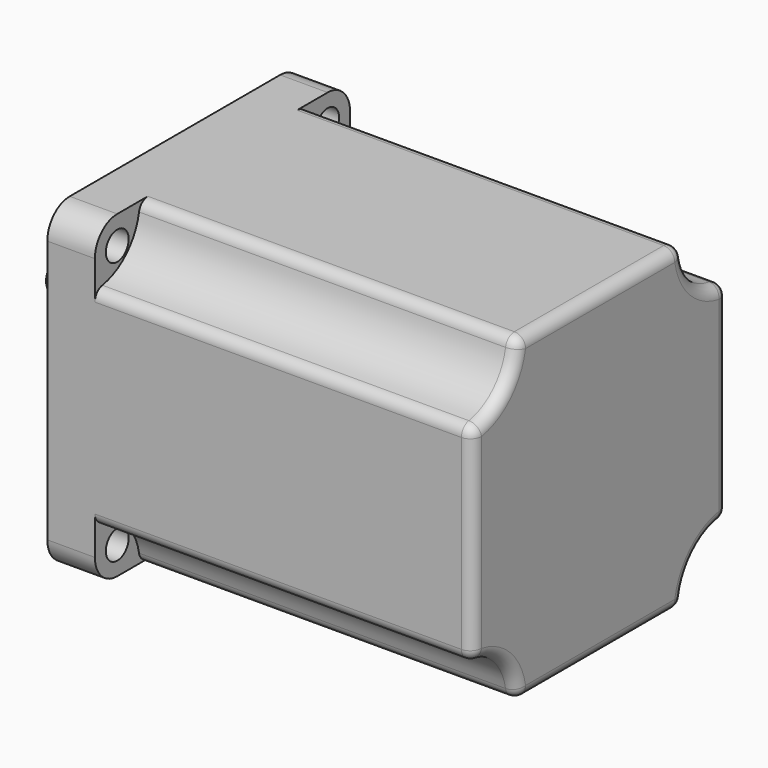
from build123d import *

# Parameters (mm, degrees)
F0_W      = 76
F0_H      = 57
F1_DEPTH  = 57
F2_R      = 17.55
F3_DEPTH  = 1.6
F4_R      = 2.55
F5_DEPTH  = 25
F7_DEPTH  = 67.5
F8_R      = 5
F9_R      = 2
F10_R     = 3.175
F11_DEPTH = 19.4
F13_DEPTH = 15
F14_R     = 1


with BuildPart() as f1:
    # F0 (on Top) → F1 (new body)
    with BuildSketch(Plane.XY):
        Rectangle(F0_W, F0_H)
    extrude(amount=F1_DEPTH)

    # F2 (on face) → F3 (join)
    with BuildSketch(Plane(origin=(-38, 0, 0), x_dir=(0, -1, 0), z_dir=(-1, 0, 0))):
        with Locations((0, 28.5)):
            Circle(F2_R)
    extrude(amount=F3_DEPTH)

    # F4 (on face) → F5 (cut)
    with BuildSketch(Plane(origin=(-38, 0, 0), x_dir=(0, -1, 0), z_dir=(-1, 0, 0))):
        with Locations((-23.5, 52)):
            Circle(F4_R)
        with Locations((23.5, 52)):
            Circle(F4_R)
        with Locations((23.5, 5)):
            Circle(F4_R)
        with Locations((-23.5, 5)):
            Circle(F4_R)
    extrude(amount=-F5_DEPTH, mode=Mode.SUBTRACT)

    # F6 (on face) → F7 (cut)
    with BuildSketch(Plane.YZ.offset(38)):
        with BuildLine():
            Line((-28.5, 57), (-28.5, 47))
            ThreePointArc((-28.5, 47), (-21.4289321881, 49.9289321881), (-18.5, 57))
            Line((-18.5, 57), (-28.5, 57))
        make_face()
        with BuildLine():
            Line((-28.5, 0), (-18.5, 0))
            ThreePointArc((-18.5, 0), (-21.4289321881, 7.0710678119), (-28.5, 10))
            Line((-28.5, 10), (-28.5, 0))
        make_face()
        with BuildLine():
            Line((28.5, 0), (28.5, 10))
            ThreePointArc((28.5, 10), (21.4289321881, 7.0710678119), (18.5, 0))
            Line((18.5, 0), (28.5, 0))
        make_face()
        with BuildLine():
            Line((28.5, 57), (18.5, 57))
            ThreePointArc((18.5, 57), (21.4289321881, 49.9289321881), (28.5, 47))
            Line((28.5, 47), (28.5, 57))
        make_face()
    extrude(amount=-F7_DEPTH, mode=Mode.SUBTRACT)

    # F8
    f8_edges = [f1.edges().sort_by_distance(p)[0] for p in [
        (-33.75, -28.5, 57),
        (-33.75, 28.5, 57),
        (-33.75, 28.5, 0),
        (-33.75, -28.5, 0),
    ]]
    fillet(f8_edges, radius=F8_R)

    # F9
    f9_edges = [f1.edges().sort_by_distance(p)[0] for p in [
        (4.25, -18.5, 57),
        (4.25, -28.5, 47),
        (4.25, -28.5, 10),
        (4.25, -18.5, 0),
        (4.25, 18.5, 57),
        (4.25, 28.5, 47),
        (4.25, 28.5, 10),
        (4.25, 18.5, 0),
        (38, -21.428932, 7.071068),
        (38, 0, 0),
        (38, 21.428932, 7.071068),
        (38, 28.5, 28.5),
        (38, 21.428932, 49.928932),
        (38, 0, 57),
        (38, -21.428932, 49.928932),
        (38, -28.5, 28.5),
    ]]
    fillet(f9_edges, radius=F9_R)


with BuildPart() as f11:
    # F10 (on face) → F11 (new body)
    with BuildSketch(Plane(origin=(-39.6, 0, 0), x_dir=(0, -1, 0), z_dir=(-1, 0, 0))):
        with Locations((0, 28.5)):
            Circle(F10_R)
    extrude(amount=F11_DEPTH)

    # F12 (on face) → F13 (cut)
    with BuildSketch(Plane(origin=(-59, 0, 0), x_dir=(0, -1, 0), z_dir=(-1, 0, 0))):
        with BuildLine():
            ThreePointArc((2.5980762114, 30.325), (0, 31.675), (-2.5980762114, 30.325))
            Line((-2.5980762114, 30.325), (2.5980762114, 30.325))
        make_face()
    extrude(amount=-F13_DEPTH, mode=Mode.SUBTRACT)

    # F14
    f14_edges = [f11.edges().sort_by_distance(p)[0] for p in [
        (-59, 0.957009, 25.472665),
    ]]
    fillet(f14_edges, radius=F14_R)


solid = Compound([f1.part, f11.part])
